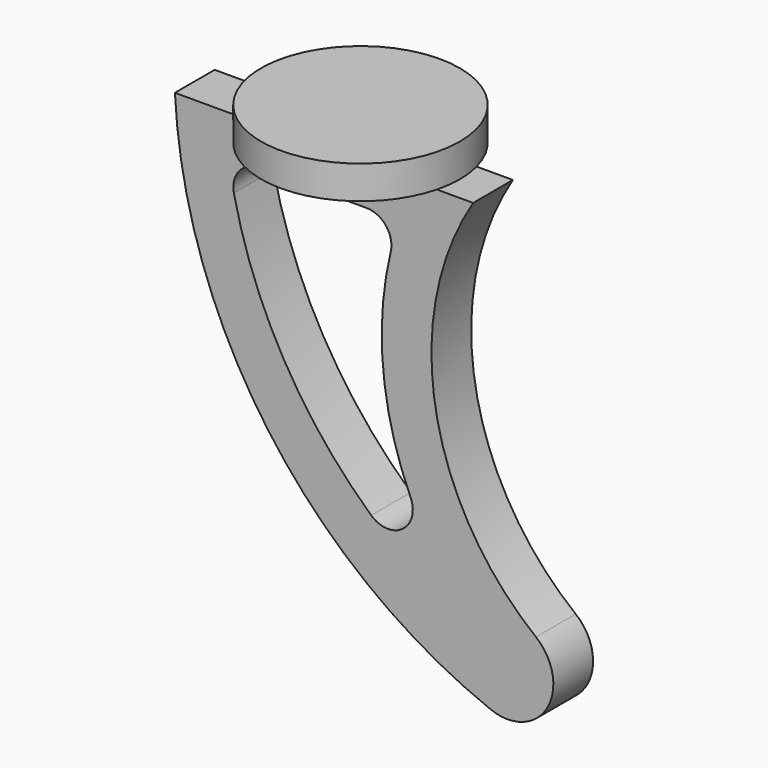
from build123d import *

# Parameters (mm, degrees)
F1_DEPTH = 9.525
F3_R     = 19.05
F4_DEPTH = 6.35


with BuildPart() as f1:
    # F0 (on Front) → F1 (new body)
    with BuildSketch(Plane.XZ):
        with BuildLine():
            Line((57.15, 0), (0, 0))
            ThreePointArc((0, 0), (17.840244, -51.094819), (60.525493, -84.365292))
            ThreePointArc((60.525493, -84.365292), (71.35207, -80.580737), (69.192641, -69.316878))
            ThreePointArc((69.192641, -69.316878), (49.940232, -36.957118), (57.15, 0))
        make_face()
        with BuildLine():
            ThreePointArc((11.305423, -13.253034), (12.260915, -9.263711), (15.963143, -7.497027))
            Line((15.963143, -7.497027), (36.7278, -7.497027))
            ThreePointArc((36.7278, -7.497027), (40.46795, -9.311191), (41.358653, -13.371556))
            ThreePointArc((41.358653, -13.371556), (39.913455, -33.793421), (45.164711, -53.581434))
            ThreePointArc((45.164711, -53.581434), (43.624826, -59.394993), (37.619824, -59.065356))
            ThreePointArc((37.619824, -59.065356), (20.869073, -38.223315), (11.305423, -13.253034))
        make_face(mode=Mode.SUBTRACT)
    extrude(amount=F1_DEPTH)

    # F3 (on face) → F4 (join)
    with BuildSketch(Plane.XY):
        with Locations((31.75, -4.7625)):
            Circle(F3_R)
    extrude(amount=F4_DEPTH)


solid = f1.part
